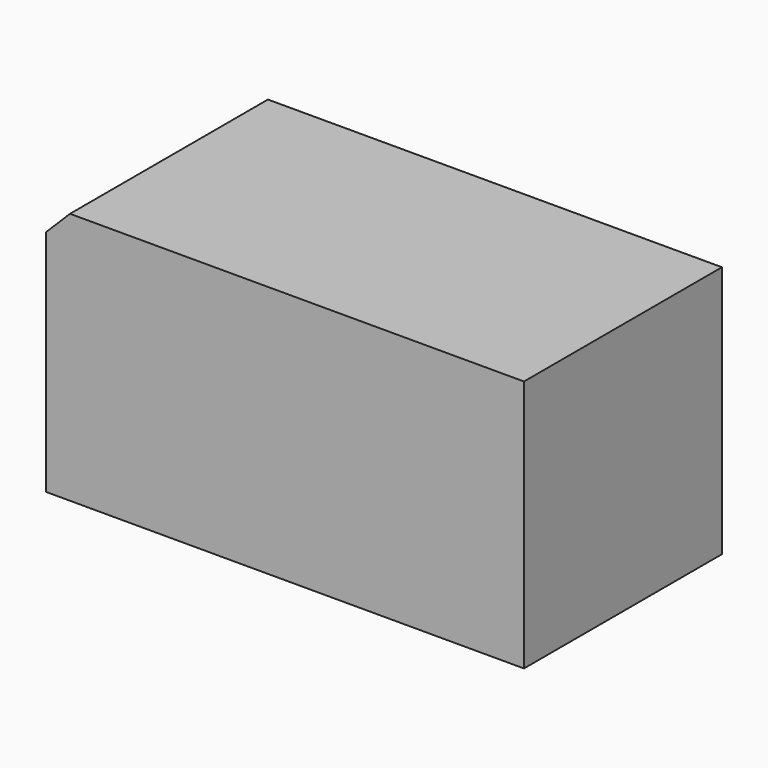
from build123d import *

# Parameters (mm, degrees)
F0_W     = 51.776763
F0_H     = 52.867815
F1_DEPTH = 100
F2_SIZE  = 5


with BuildPart() as f1:
    # F0 (on Right) → F1 (new body)
    with BuildSketch(Plane.YZ):
        with Locations((25.888381, -26.433908)):
            Rectangle(F0_W, F0_H)
    extrude(amount=F1_DEPTH)

    # F2
    f2_edges = [f1.edges().sort_by_distance(p)[0] for p in [
        (0, 25.888382, 0),
    ]]
    chamfer(f2_edges, length=F2_SIZE)


solid = f1.part
